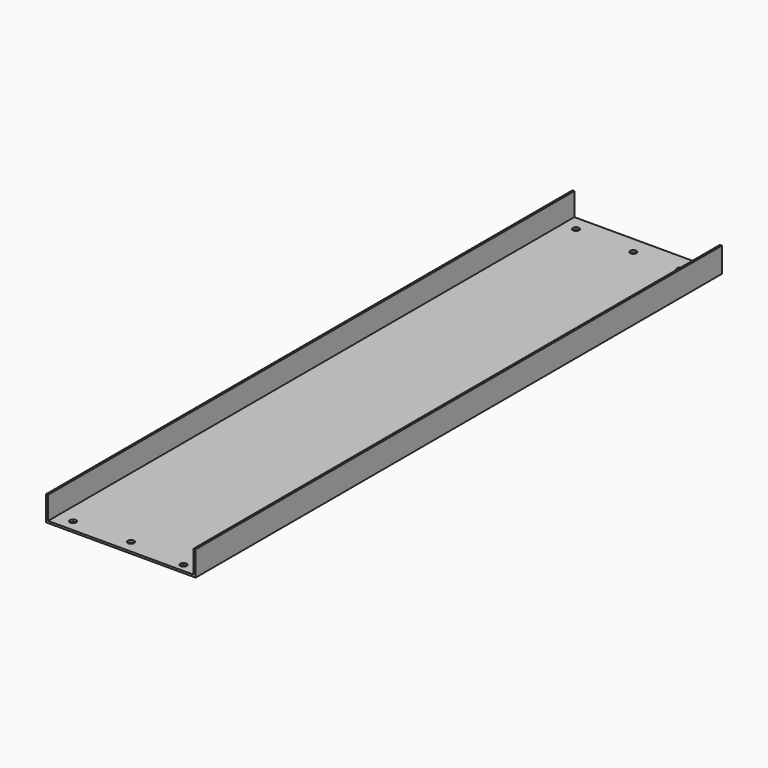
from build123d import *

# Parameters (mm, degrees)
F1_DEPTH = 660
F3_D     = 6.35


with BuildPart() as f1:
    # F0 (on Front) → F1 (new body)
    with BuildSketch(Plane.XZ):
        Polygon((0, -23), (0, 0), (-2, 0), (-2, -25), (148, -25), (148, 0), (146, 0), (146, -23), align=None)
    extrude(amount=F1_DEPTH)

    # F3 (through all)
    with Locations(Plane.XY.offset(-23)):
        with Locations((15.7224, -648.32902), (73, -647.237599), (129.395574, -651.889563), (120.003812, -17.314114), (73, -17.314114), (13.673902, -15.054441)):
            Hole(F3_D / 2)


solid = f1.part
